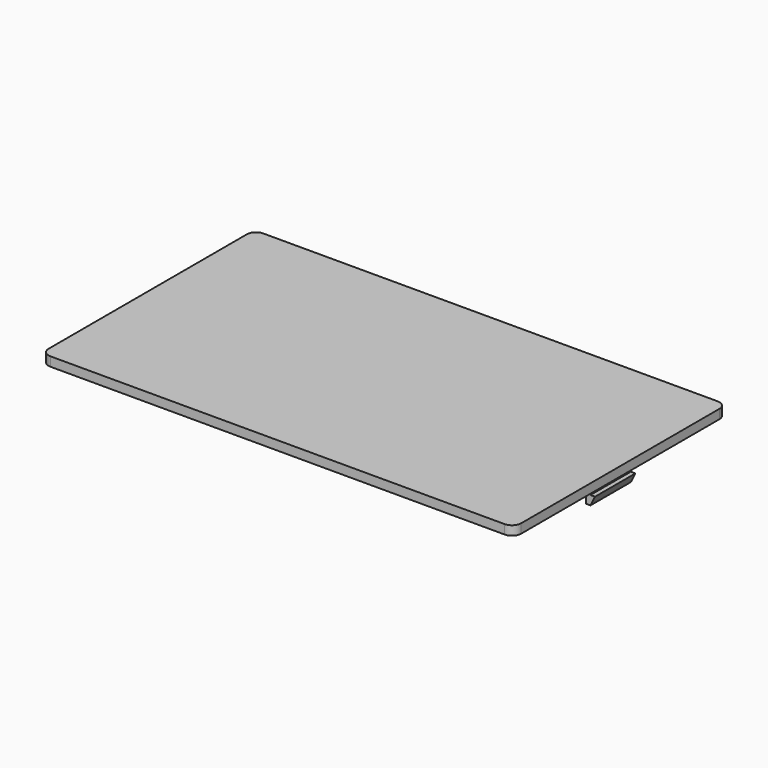
from build123d import *

# Parameters (mm, degrees)
PAD002_DEPTH = 11
PAD001_DEPTH = 2


with BuildPart() as latches:
    # Sketch002 → Pad002 (new body)
    with BuildSketch(Plane.XZ):
        Polygon((1.5, 0), (1.5, -4), (0.5, -4), (-0.5, -2), (0.5, -2), (0.5, 0), (0.5, 0.5), (99.3, 0.5), (99.3, 0), (99.3, -2), (100.3, -2), (99.3, -4), (98.3, -4), (98.3, 0), align=None)
    extrude(amount=PAD002_DEPTH)


with BuildPart() as latches_1:
    # Body002 placement: moved
    add(latches.part.moved(Location((-0.4, 32.5, 0))))


with BuildPart() as obj1:
    # Sketch001 → Pad001 (new body)
    with BuildSketch(Plane.XY):
        with BuildLine():
            ThreePointArc((0, 56), (-1.414214, 55.414214), (-2, 54))
            Line((-2, 0), (-2, 54))
            ThreePointArc((-2, 0), (-1.414214, -1.414214), (0, -2))
            Line((99, -2), (0, -2))
            ThreePointArc((99, -2), (100.414214, -1.414214), (101, 0))
            Line((101, 54), (101, 0))
            ThreePointArc((101, 54), (100.414214, 55.414214), (99, 56))
            Line((0, 56), (99, 56))
        make_face()
    extrude(amount=PAD001_DEPTH)

    # Fusion002: union Latches
    add(latches_1.part)


with BuildPart() as obj1_1:
    # Fusion002 placement: moved
    add(obj1.part.moved(Location((0, 0, 30))))


solid = obj1_1.part
